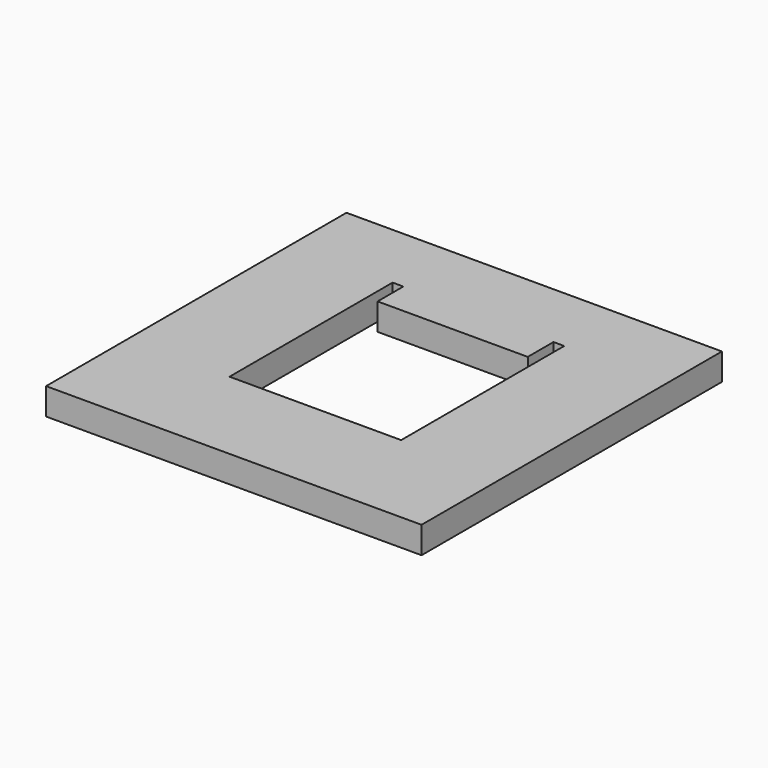
from build123d import *

# Parameters (mm, degrees)
F0_W     = 88.9
F0_H     = 88.9
F1_DEPTH = 6.35


with BuildPart() as f1:
    # F0 (on Top) → F1 (new body)
    with BuildSketch(Plane.XY):
        Rectangle(F0_W, F0_H)
        Polygon((-17.78, 27.94), (-17.78, 20.32), (17.78, 20.32), (17.78, 27.94), (20.32, 27.94), (20.32, 20.32), (20.32, -20.32), (-20.32, -20.32), (-20.32, 20.32), (-20.32, 27.94), align=None, mode=Mode.SUBTRACT)
    extrude(amount=F1_DEPTH)


solid = f1.part
